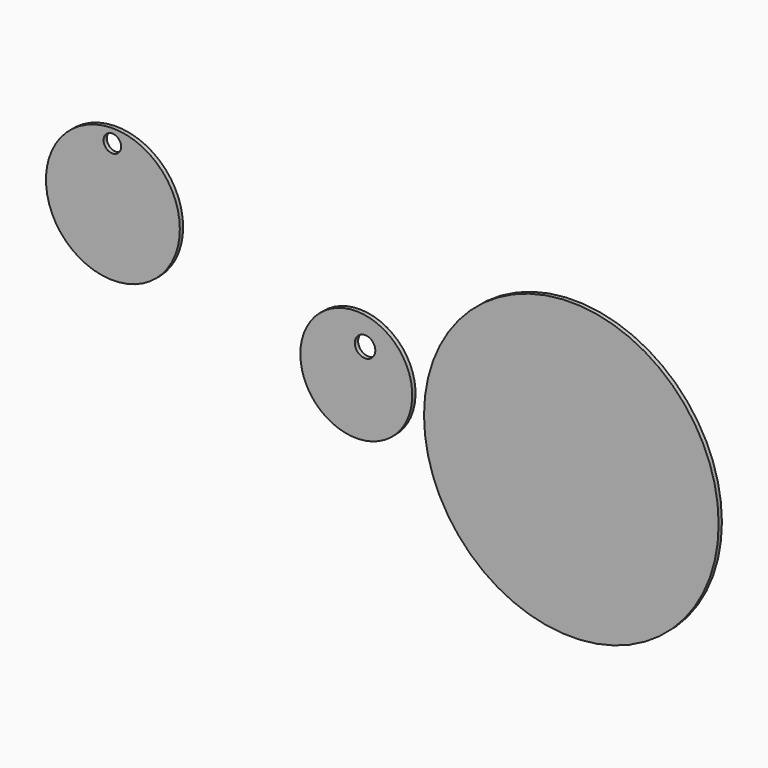
from build123d import *

# Parameters (mm, degrees)
F0_R     = 413.7092458342
F0_R_2   = 54.3288686765
F1_DEPTH = 25.4
F0_R_3   = 63.2886539818
F0_R_4   = 910.4191534827


with BuildPart() as f1:
    # F0 (on Front) → F1 (new body)
    with BuildSketch(Plane.XZ):
        with Locations((-559.3950748444, 956.9191932678)):
            Circle(F0_R)
        with Locations((-562.7452135086, 1286.8853807449)):
            Circle(F0_R_2, mode=Mode.SUBTRACT)
    extrude(amount=F1_DEPTH)


with BuildPart() as f1b:
    # F0 (on Front) → F1, piece 2 (new body)
    with BuildSketch(Plane.XZ):
        with BuildLine():
            ThreePointArc((716.7133694164, 779.3830861909), (802.1753486044, 204.4245754364), (1290.6760317576, 519.461274147))
            ThreePointArc((1290.6760317576, 519.461274147), (1087.5071827524, 834.4979728577), (716.7133694164, 779.3830861909))
        make_face()
        with BuildLine():
            ThreePointArc((822.7081145061, 731.3828468323), (732.495792956, 673.2044381115), (716.7133694164, 779.3830861909))
            ThreePointArc((716.7133694164, 779.3830861909), (785.188547521, 789.561255553), (822.7081145061, 731.3828468323))
        make_face(mode=Mode.SUBTRACT)
        with Locations((999.0915060043, 689.0805363655)):
            Circle(F0_R_3, mode=Mode.SUBTRACT)
        with BuildLine():
            ThreePointArc((822.7081145061, 731.3828468323), (785.188547521, 789.561255553), (716.7133694164, 779.3830861909))
            ThreePointArc((716.7133694164, 779.3830861909), (732.495792956, 673.2044381115), (822.7081145061, 731.3828468323))
        make_face()
    extrude(amount=F1_DEPTH)


with BuildPart() as f1c:
    # F0 (on Front) → F1, piece 3 (new body)
    with BuildSketch(Plane.XZ):
        with Locations((2273.6985683441, 435.2048635483)):
            Circle(F0_R_4)
    extrude(amount=F1_DEPTH)


solid = Compound([f1.part, f1b.part, f1c.part])
